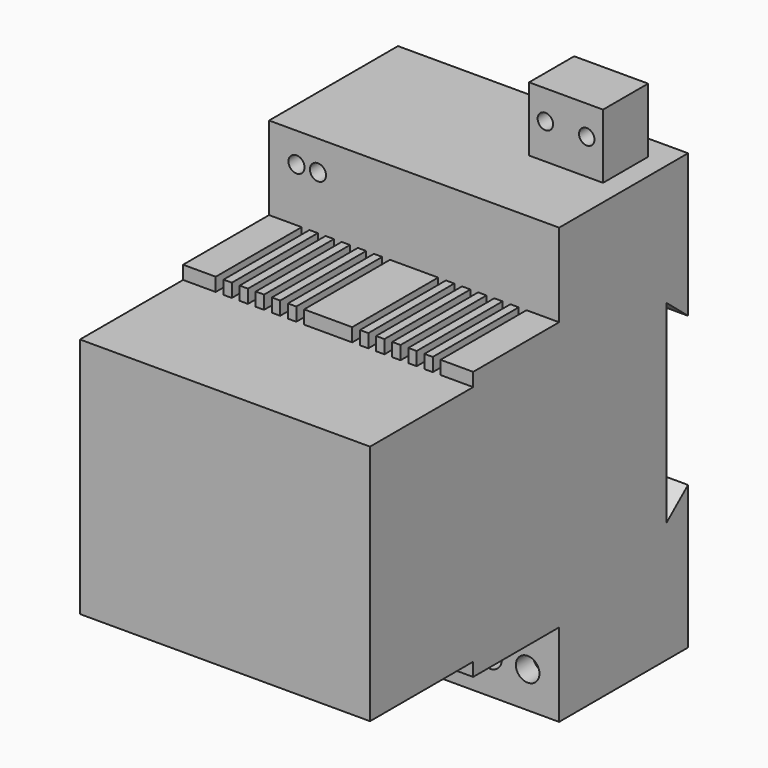
from build123d import *

# Parameters (mm, degrees)
F1_DEPTH = 27
F4_W     = 13.767542
F4_H     = 10.494464
F5_DEPTH = 12
F2_R     = 1.5
F2_R_2   = 2.197624
F6_R     = 1.436768
F3_R     = 1.5
F7_DEPTH = 4
F8_W     = 1.44863
F8_H     = 2.5
F9_DEPTH = 20


with BuildPart() as f1:
    # F0 (on Right) → F1 (new body, symmetric)
    with BuildSketch(Plane.YZ):
        Polygon((-15, -25), (-15, -40.5), (15, -40.5), (15, -13.856175), (10, -18), (10, 18), (15, 13.856175), (15, 40.5), (-15, 40.5), (-15, 25), (-35, 25), (-35, 22.5), (-59, 22.5), (-59, -22.5), (-35, -22.5), (-35, -25), align=None)
    extrude(amount=F1_DEPTH, both=True)

    # F4 (on face) → F5 (join)
    with BuildSketch(Plane.XY.offset(40.5)):
        with Locations((16.288548, 5.247232)):
            Rectangle(F4_W, F4_H)
    extrude(amount=F5_DEPTH)

    # F2 (on face) + F6 (on face) + F3 (on face) → F7 (cut)
    with BuildSketch(Plane.XZ.offset(15)):
        with Locations((-23.745881, -35.95088)):
            Circle(F2_R)
        with Locations((-19.745881, -35.95088)):
            Circle(F2_R)
        with Locations((-15.745881, -35.95088)):
            Circle(F2_R)
        with Locations((-6.855602, -33.778694)):
            Circle(F2_R_2)
        with Locations((0.144398, -33.778694)):
            Circle(F2_R_2)
        with Locations((7.144398, -33.778694)):
            Circle(F2_R_2)
        with Locations((14.144398, -33.778694)):
            Circle(F2_R_2)
        with Locations((21.144398, -33.778694)):
            Circle(F2_R_2)
    with BuildSketch(Plane.XZ):
        with Locations((12.437331, 47.069304)):
            Circle(F6_R)
        with Locations((20.139764, 47.069304)):
            Circle(F6_R)
    with BuildSketch(Plane.XZ.offset(15)):
        with Locations((-21.891808, 34.965087)):
            Circle(F3_R)
        with Locations((-17.891808, 34.965087)):
            Circle(F3_R)
    extrude(amount=-F7_DEPTH, mode=Mode.SUBTRACT)

    # F8 (on face) → F9 (cut, through all)
    with BuildSketch(Plane.XZ.offset(35)):
        with Locations((-5.202554, 23.75)):
            Rectangle(F8_W, F8_H)
        with Locations((-8.202554, 23.75)):
            Rectangle(F8_W, F8_H)
        with Locations((-11.202554, 23.75)):
            Rectangle(F8_W, F8_H)
        with Locations((-14.202554, 23.75)):
            Rectangle(F8_W, F8_H)
        with Locations((-17.202554, 23.75)):
            Rectangle(F8_W, F8_H)
        with Locations((-20.202554, 23.75)):
            Rectangle(F8_W, F8_H)
        with Locations((5.202554, 23.75)):
            Rectangle(F8_W, F8_H)
        with Locations((8.202554, 23.75)):
            Rectangle(F8_W, F8_H)
        with Locations((11.202554, 23.75)):
            Rectangle(F8_W, F8_H)
        with Locations((14.202554, 23.75)):
            Rectangle(F8_W, F8_H)
        with Locations((17.202554, 23.75)):
            Rectangle(F8_W, F8_H)
        with Locations((20.202554, 23.75)):
            Rectangle(F8_W, F8_H)
        with Locations((-20.202554, -23.75)):
            Rectangle(F8_W, F8_H)
        with Locations((-17.202554, -23.75)):
            Rectangle(F8_W, F8_H)
        with Locations((-14.202554, -23.75)):
            Rectangle(F8_W, F8_H)
        with Locations((-11.202554, -23.75)):
            Rectangle(F8_W, F8_H)
        with Locations((-8.202554, -23.75)):
            Rectangle(F8_W, F8_H)
        with Locations((-5.202554, -23.75)):
            Rectangle(F8_W, F8_H)
        with Locations((5.202554, -23.75)):
            Rectangle(F8_W, F8_H)
        with Locations((8.202554, -23.75)):
            Rectangle(F8_W, F8_H)
        with Locations((11.202554, -23.75)):
            Rectangle(F8_W, F8_H)
        with Locations((14.202554, -23.75)):
            Rectangle(F8_W, F8_H)
        with Locations((17.202554, -23.75)):
            Rectangle(F8_W, F8_H)
        with Locations((20.202554, -23.75)):
            Rectangle(F8_W, F8_H)
    extrude(amount=-F9_DEPTH, mode=Mode.SUBTRACT)


solid = f1.part
